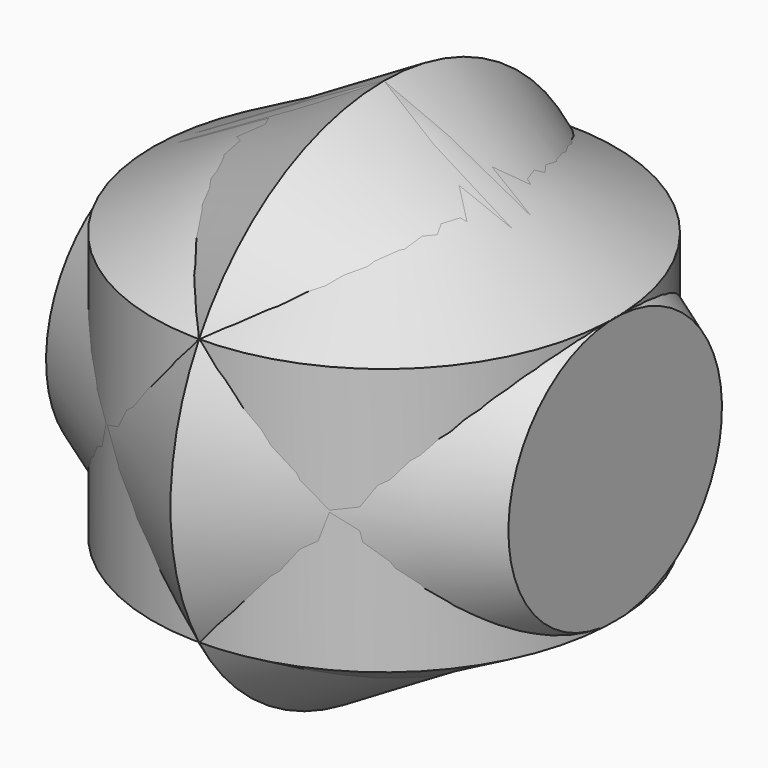
from build123d import *


with BuildPart() as f1:
    # F0 (on Front) → F1 (revolve)
    with BuildSketch(Plane.XZ):
        Polygon((0, 0), (0, 25.4), (-21.997045, 12.7), align=None)
        Polygon((-21.997045, 0), (0, 0), (-21.997045, 12.7), align=None)
        Polygon((0, -25.4), (0, 0), (-21.997045, -12.7), align=None)
        Polygon((-21.997045, -12.7), (0, 0), (-21.997045, 0), align=None)
    revolve(axis=Axis((0, 0, 12.7), (0, 0, 1)))


with BuildPart() as f2:
    # F0 (on Front) → F2 (revolve)
    with BuildSketch(Plane.XZ):
        Polygon((0, -25.4), (0, 0), (-21.997045, -12.7), align=None)
        Polygon((-21.997045, -12.7), (0, 0), (-21.997045, 0), align=None)
        Polygon((0, -25.4), (21.997045, -12.7), (0, 0), align=None)
        Polygon((0, 0), (21.997045, -12.7), (21.997045, 0), align=None)
    revolve(axis=Axis((-10.998523, 0, 0), (-1, 0, 0)))


solid = Compound([f1.part, f2.part])
